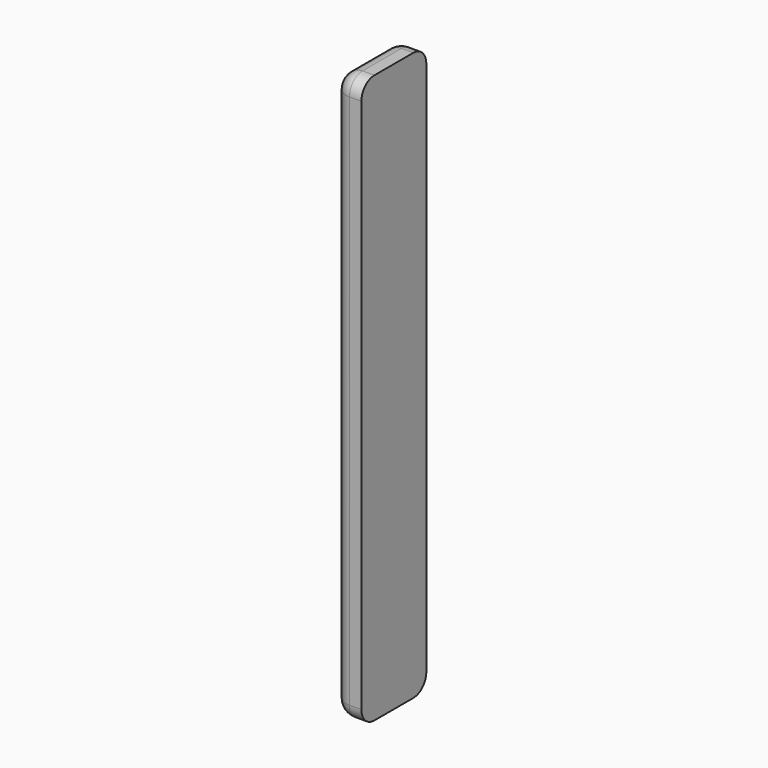
from build123d import *

# Parameters (mm, degrees)
F0_W          = 8.812238
F0_H          = 25.4
F1_DEPTH      = 88.9
F1_DEPTH_BACK = 88.9
F2_R          = 5.08
F3_R          = 5.08
F4_R          = 5.08
F5_R          = 5.08


with BuildPart() as f1:
    # F0 (on Top) → F1 (new body, two sides)
    with BuildSketch(Plane.XY) as f1_sk:
        with Locations((-38.162628, 17.049316)):
            Rectangle(F0_W, F0_H)
    extrude(amount=F1_DEPTH)
    extrude(f1_sk.sketch, amount=-F1_DEPTH_BACK)

    # F2
    f2_edges = [f1.edges().sort_by_distance(p)[0] for p in [
        (-42.568747, 4.349316, 0),
    ]]
    fillet(f2_edges, radius=F2_R)

    # F3
    f3_edges = [f1.edges().sort_by_distance(p)[0] for p in [
        (-42.568747, 29.749316, 0),
    ]]
    fillet(f3_edges, radius=F3_R)

    # F4
    f4_edges = [f1.edges().sort_by_distance(p)[0] for p in [
        (-42.568747, 17.049316, 88.9),
    ]]
    fillet(f4_edges, radius=F4_R)

    # F5
    f5_edges = [f1.edges().sort_by_distance(p)[0] for p in [
        (-42.568747, 17.049316, -88.9),
    ]]
    fillet(f5_edges, radius=F5_R)


solid = f1.part
